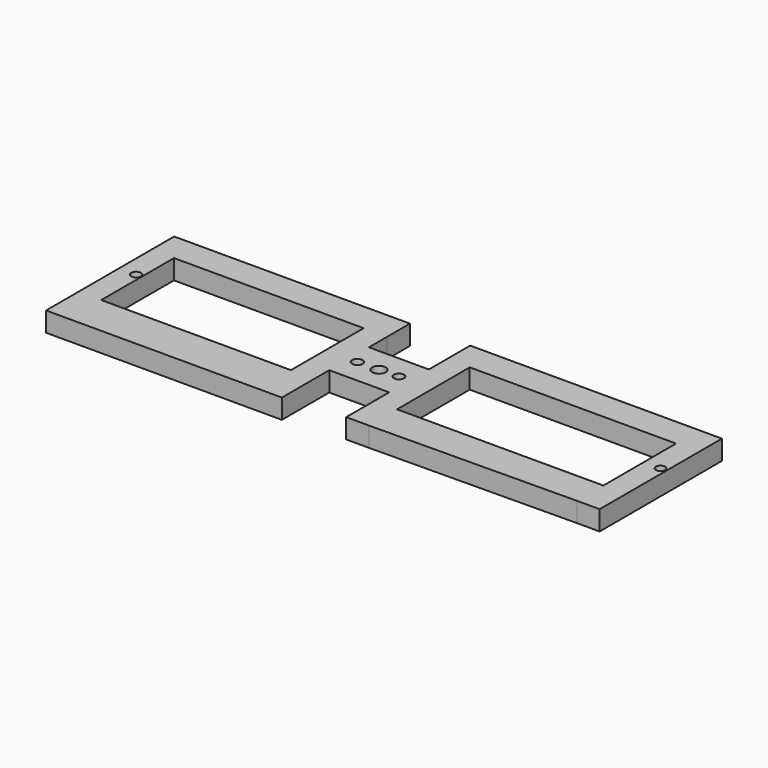
from build123d import *

# Parameters (mm, degrees)
F0_W     = 53.34
F0_H     = 7.4762164177
F1_DEPTH = 5.08
F0_W_2   = 15.4877182819
F0_H_2   = 12.8163710635
F0_R     = 1.365180055
F0_R_2   = 1.7356876501
F0_R_3   = 1.2971240832
F2_DEPTH = 5.08
F0_R_4   = 1.201625658
F0_W_3   = 6.0593526471
F0_H_3   = 10.5057700578
F0_W_4   = 49.0457672859
F0_H_4   = 7.3963825689
F0_W_5   = 5.854880067
F0_H_5   = 23.4966807871
F0_R_5   = 1.2613504397
F3_DEPTH = 5.08


with BuildPart() as f1:
    # F0 (on Top) → F1 (new body)
    with BuildSketch(Plane.XY):
        with Locations((102.2345048122, 14.151409833)):
            Rectangle(F0_W, F0_H)
        Polygon((128.9045048122, 10.4133016241), (131.6407098506, 10.4133016241), (134.779159077, 10.4133016241), (134.779159077, 17.8895180418), (128.9045048122, 17.8895180418), align=None)
        Polygon((128.9045048122, -21.6276271147), (128.9045048122, -13.083379163), (75.5645048122, -13.083379163), (75.5645048122, -20.5595947167), (75.5645048122, -22.1616424497), align=None)
        Polygon((75.5645048122, -13.083379163), (75.5645048122, 10.4133016241), (75.5645048122, 17.8895180418), (69.6898505475, 17.8895180418), (69.6898505475, 4.5391316433), (69.6898505475, -8.2772394202), (69.6898505475, -22.1616424497), (75.5645048122, -22.1616424497), (75.5645048122, -20.5595947167), align=None)
    extrude(amount=F1_DEPTH)

    # F0 (on Top) → F2 (join)
    with BuildSketch(Plane.XY):
        with Locations((61.9459914065, -1.8690538884)):
            Rectangle(F0_W_2, F0_H_2)
        with Locations((56.3987791538, -1.916793175)):
            Circle(F0_R, mode=Mode.SUBTRACT)
        with Locations((61.9344774574, -1.8690538884)):
            Circle(F0_R_2, mode=Mode.SUBTRACT)
        with Locations((66.9036880136, -1.6289874911)):
            Circle(F0_R_3, mode=Mode.SUBTRACT)
    extrude(amount=F2_DEPTH)

    # F0 (on Top) → F3 (join)
    with BuildSketch(Plane.XY):
        Polygon((134.779159077, 10.4133016241), (131.6407098506, 10.4133016241), (128.9045048122, 10.4133016241), (128.9045048122, -13.083379163), (131.6407098506, -13.083379163), (134.779159077, -13.083379163), align=None)
        with Locations((133.2313663255, 0)):
            Circle(F0_R_4, mode=Mode.SUBTRACT)
        Polygon((131.6407098506, -13.083379163), (128.9045048122, -13.083379163), (128.9045048122, -21.6276271147), (134.779159077, -21.6276271147), (134.779159077, -13.083379163), align=None)
        with Locations((51.1724559421, -18.3362641919)):
            Rectangle(F0_W_3, F0_H_3)
        with Locations((23.6198959756, -18.3362641919)):
            Rectangle(F0_W_4, F0_H_3)
        Polygon((54.2021322656, -8.2772394202), (54.2021322656, 4.5391316433), (54.2021322656, 10.4133016241), (48.1427796185, 10.4133016241), (48.1427796185, -13.083379163), (54.2021322656, -13.083379163), align=None)
        with Locations((51.1724559421, 14.1114929086)):
            Rectangle(F0_W_3, F0_H_4)
        with Locations((23.6198959756, 14.1114929086)):
            Rectangle(F0_W_4, F0_H_4)
        with Locations((-3.8304277009, 14.1114929086)):
            Rectangle(F0_W_5, F0_H_4)
        with Locations((-3.8304277009, -18.3362641919)):
            Rectangle(F0_W_5, F0_H_3)
        with Locations((-3.8304277009, -1.3350387695)):
            Rectangle(F0_W_5, F0_H_5)
        with Locations((-2.3539937101, 0)):
            Circle(F0_R_5, mode=Mode.SUBTRACT)
    extrude(amount=F3_DEPTH)


solid = f1.part
